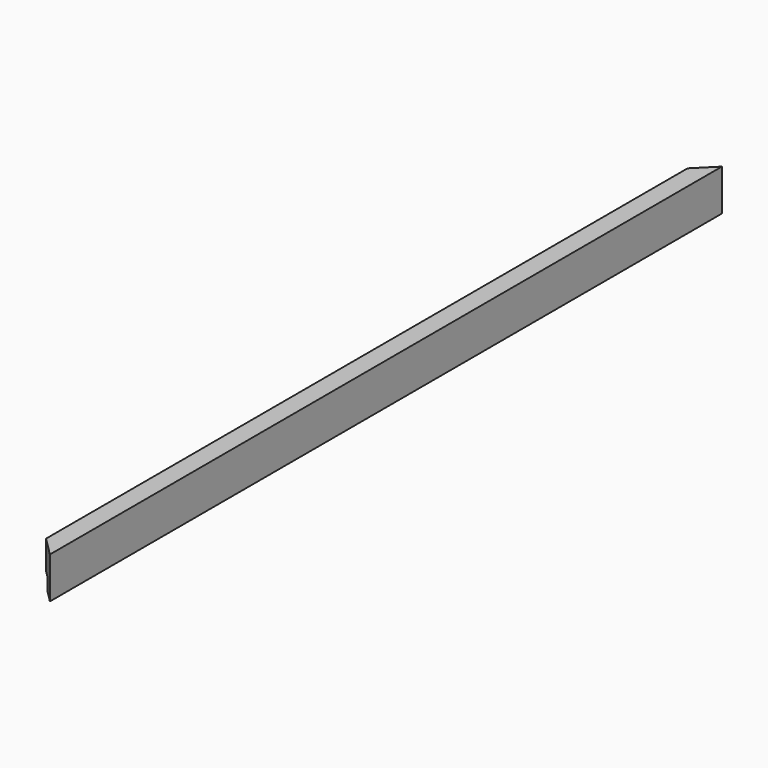
from build123d import *

# Parameters (mm, degrees)
PAD002_DEPTH         = 350
POCKET001_DEPTH      = 8.001
POCKET001_DEPTH_BACK = 30.001
SKETCH_W             = 12
SKETCH_H             = 12
POCKET_DEPTH         = 264.001
POCKET_DEPTH_BACK    = 264.001


with BuildPart() as part:
    # Sketch003 → Pad002 (new body, symmetric)
    with BuildSketch(Plane.XZ):
        Polygon((214.5, 0), (218.5, 0), (218.5, -8), (226.5, -8), (226.5, 25.632357), (214.5, 30), align=None)
    extrude(amount=PAD002_DEPTH, both=True)

    # Sketch004 → Pocket001 (cut, two sides)
    with BuildSketch(Plane.XY) as pocket001_sk:
        Polygon((226.5, -350), (226.5, -264), (214.5, -252), (214.5, -350), align=None)
        Polygon((226.5, 350), (226.5, 264), (214.5, 252), (214.5, 350), align=None)
    extrude(amount=-POCKET001_DEPTH, mode=Mode.SUBTRACT)
    extrude(pocket001_sk.sketch, amount=POCKET001_DEPTH_BACK, mode=Mode.SUBTRACT)

    # Sketch → Pocket (cut, two sides)
    with BuildSketch(Plane.XZ) as pocket_sk:
        with Locations((220.5, 24)):
            Rectangle(SKETCH_W, SKETCH_H)
    extrude(amount=-POCKET_DEPTH, mode=Mode.SUBTRACT)
    extrude(pocket_sk.sketch, amount=POCKET_DEPTH_BACK, mode=Mode.SUBTRACT)


solid = part.part
